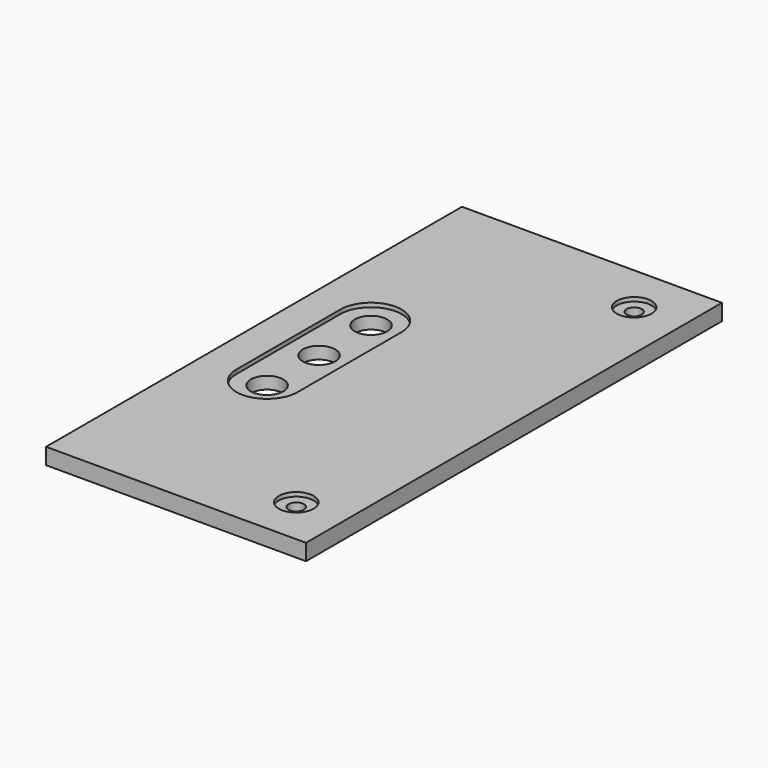
from build123d import *

# Parameters (mm, degrees)
F0_R     = 6.35
F1_DEPTH = 4.7625
F0_W     = 203.2
F0_H     = 101.6
F0_R_2   = 6.7945
F2_DEPTH = 6.35
F0_R_3   = 2.97688
F3_DEPTH = 4.7625
F4_DEPTH = 4.7625
F5_ANGLE = 270


with BuildPart() as f1:
    # F0 (on Top) → F1 (new body)
    with BuildSketch(Plane.XY):
        with BuildLine():
            Line((127, 88.16975), (76.2, 88.16975))
            ThreePointArc((76.2, 88.16975), (64.23025, 76.2), (76.2, 64.23025))
            Line((76.2, 64.23025), (127, 64.23025))
            ThreePointArc((127, 64.23025), (138.96975, 76.2), (127, 88.16975))
        make_face()
        with Locations((76.2, 76.2)):
            Circle(F0_R, mode=Mode.SUBTRACT)
        with Locations((101.6, 76.2)):
            Circle(F0_R, mode=Mode.SUBTRACT)
        with Locations((127, 76.2)):
            Circle(F0_R, mode=Mode.SUBTRACT)
    extrude(amount=F1_DEPTH)

    # F0 (on Top) → F2 (join)
    with BuildSketch(Plane.XY):
        with Locations((101.6, 50.8)):
            Rectangle(F0_W, F0_H)
        with Locations((19.05, 19.05)):
            Circle(F0_R_2, mode=Mode.SUBTRACT)
        with Locations((184.15, 19.05)):
            Circle(F0_R_2, mode=Mode.SUBTRACT)
        with BuildLine():
            ThreePointArc((76.2, 64.23025), (64.23025, 76.2), (76.2, 88.16975))
            Line((76.2, 88.16975), (127, 88.16975))
            ThreePointArc((127, 88.16975), (138.96975, 76.2), (127, 64.23025))
            Line((127, 64.23025), (76.2, 64.23025))
        make_face(mode=Mode.SUBTRACT)
    extrude(amount=F2_DEPTH)

    # F0 (on Top) → F3 (join)
    with BuildSketch(Plane.XY):
        with Locations((19.05, 19.05)):
            Circle(F0_R_2)
        with Locations((19.05, 19.05)):
            Circle(F0_R_3, mode=Mode.SUBTRACT)
    extrude(amount=F3_DEPTH)

    # F0 (on Top) → F4 (join)
    with BuildSketch(Plane.XY):
        with Locations((184.15, 19.05)):
            Circle(F0_R_2)
        with Locations((184.15, 19.05)):
            Circle(F0_R_3, mode=Mode.SUBTRACT)
    extrude(amount=F4_DEPTH)


with BuildPart() as f1_1:
    # F5: moved
    add(f1.part.rotate(Axis((0, 0, 3.175), (0, 0, -1)), F5_ANGLE))


with BuildPart() as f1_2:
    # F6: moved
    add(f1_1.part.moved(Location((101.6, 0, 0))))


solid = f1_2.part
